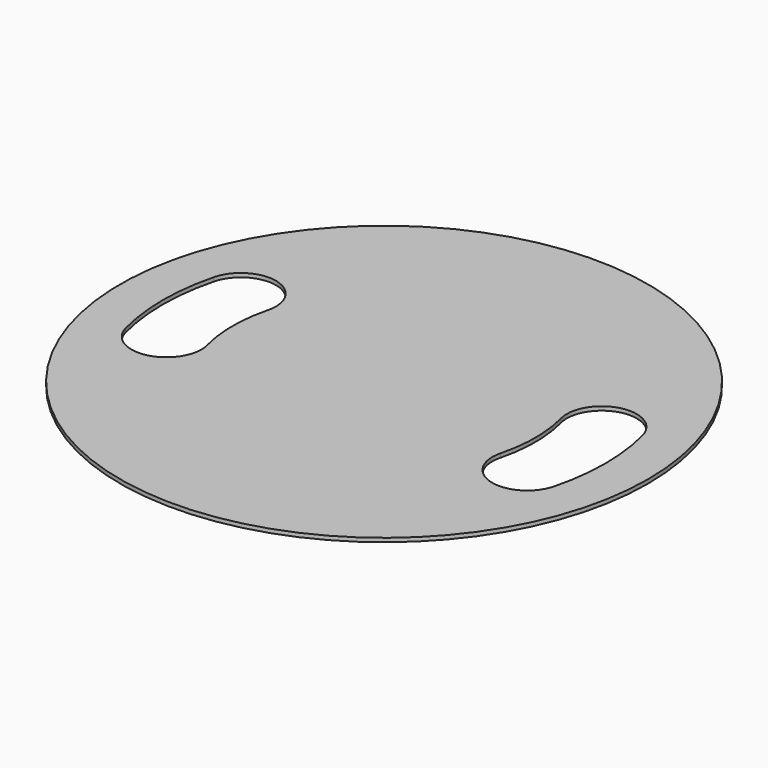
from build123d import *

# Parameters (mm, degrees)
F0_R     = 34
F1_DEPTH = 0.5


with BuildPart() as f1:
    # F0 (on Top) → F1 (new body)
    with BuildSketch(Plane.XY):
        Circle(F0_R)
        with BuildLine():
            ThreePointArc((-27.595006, 7.125), (-22.1129, 10.357106), (-18.880794, 4.875))
            ThreePointArc((-18.880794, 4.875), (-19.5, 0), (-18.880794, -4.875))
            ThreePointArc((-18.880794, -4.875), (-22.1129, -10.357106), (-27.595006, -7.125))
            ThreePointArc((-27.595006, -7.125), (-28.5, 0), (-27.595006, 7.125))
        make_face(mode=Mode.SUBTRACT)
        with BuildLine():
            ThreePointArc((18.880794, -4.875), (19.5, 0), (18.880794, 4.875))
            ThreePointArc((18.880794, 4.875), (22.1129, 10.357106), (27.595006, 7.125))
            ThreePointArc((27.595006, 7.125), (28.5, 0), (27.595006, -7.125))
            ThreePointArc((27.595006, -7.125), (22.1129, -10.357106), (18.880794, -4.875))
        make_face(mode=Mode.SUBTRACT)
    extrude(amount=F1_DEPTH)


solid = f1.part
